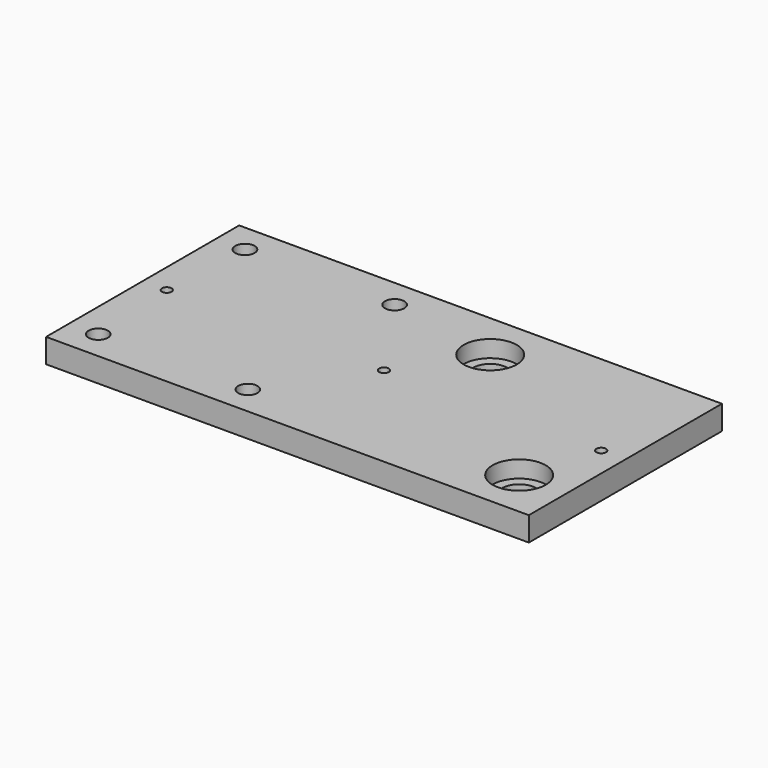
from build123d import *

# Parameters (mm, degrees)
F0_R     = 4
F0_R_2   = 2
F0_R_3   = 11
F1_DEPTH = 10
F0_R_4   = 7
F2_DEPTH = 3


with BuildPart() as f1:
    # F0 (on Top) → F1 (new body)
    with BuildSketch(Plane.XY):
        Polygon((63.985266, 62.836266), (-136.014734, 62.836266), (-136.014734, -37.163734), (43.985266, -37.163734), (63.985266, -37.163734), align=None)
        with Locations((-124.00907, -25.163734)):
            Circle(F0_R, mode=Mode.SUBTRACT)
        with Locations((-62.014734, -25.163734)):
            Circle(F0_R, mode=Mode.SUBTRACT)
        with BuildLine():
            ThreePointArc((54.985266, -17.163734), (51.76344, -24.941909), (43.985266, -28.163734))
            ThreePointArc((43.985266, -28.163734), (36.207091, -9.38556), (54.985266, -17.163734))
        make_face(mode=Mode.SUBTRACT)
        with Locations((-126.014734, 12.836266)):
            Circle(F0_R_2, mode=Mode.SUBTRACT)
        with Locations((-124.014734, 50.836266)):
            Circle(F0_R, mode=Mode.SUBTRACT)
        with Locations((-62.014734, 50.836266)):
            Circle(F0_R, mode=Mode.SUBTRACT)
        with Locations((-36.014734, 12.836266)):
            Circle(F0_R_2, mode=Mode.SUBTRACT)
        with Locations((53.985266, 12.836266)):
            Circle(F0_R_2, mode=Mode.SUBTRACT)
        with Locations((-16.014734, 42.836266)):
            Circle(F0_R_3, mode=Mode.SUBTRACT)
    extrude(amount=F1_DEPTH)

    # F0 (on Top) → F2 (join)
    with BuildSketch(Plane.XY):
        with Locations((-16.014734, 42.836266)):
            Circle(F0_R_3)
        with Locations((-16.014734, 42.836266)):
            Circle(F0_R_4, mode=Mode.SUBTRACT)
        with BuildLine():
            ThreePointArc((54.985266, -17.163734), (36.207091, -9.38556), (43.985266, -28.163734))
            ThreePointArc((43.985266, -28.163734), (51.76344, -24.941909), (54.985266, -17.163734))
        make_face()
        with BuildLine():
            ThreePointArc((50.985266, -17.163734), (48.935013, -22.113482), (43.985266, -24.163734))
            ThreePointArc((43.985266, -24.163734), (39.035518, -12.213987), (50.985266, -17.163734))
        make_face(mode=Mode.SUBTRACT)
    extrude(amount=F2_DEPTH)


solid = f1.part
